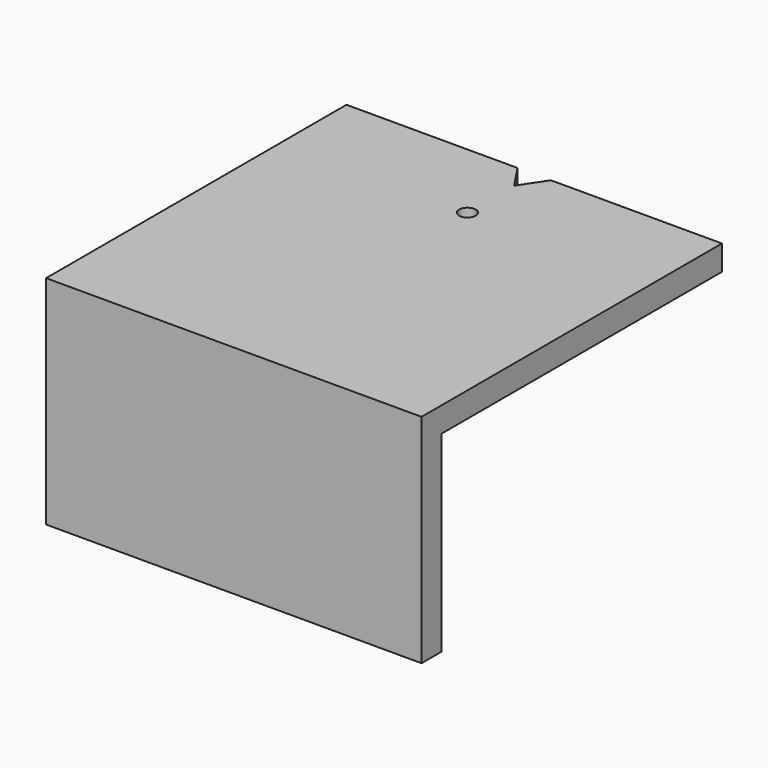
from build123d import *

# Parameters (mm, degrees)
SKETCH001_W     = 45
SKETCH001_H     = 42
PAD001_DEPTH    = 26
SKETCH_W        = 45
SKETCH_H        = 45
PAD_DEPTH       = 26
SKETCH002_R     = 1
POCKET_DEPTH    = 26.001
POCKET001_DEPTH = 5


with BuildPart() as obj1:
    # Sketch001 → Pad001 (new body)
    with BuildSketch(Plane.XY):
        with Locations((22.5, 21)):
            Rectangle(SKETCH001_W, SKETCH001_H)
    extrude(amount=PAD001_DEPTH)


with BuildPart() as obj1_1:
    # Body001 placement: moved
    add(obj1.part.moved(Location((0, 3, -3))))


with BuildPart() as obj2:
    # Sketch → Pad (new body)
    with BuildSketch(Plane.XY):
        with Locations((22.5, 22.5)):
            Rectangle(SKETCH_W, SKETCH_H)
    extrude(amount=PAD_DEPTH)

    # Sketch002 → Pocket (cut, through all)
    with BuildSketch(Plane.XY.offset(26)):
        with Locations((22.5, 35)):
            Circle(SKETCH002_R)
    extrude(amount=-POCKET_DEPTH, mode=Mode.SUBTRACT)

    # Boolean: cut obj1
    add(obj1_1.part, mode=Mode.SUBTRACT)

    # Sketch003 (on Face4 of Boolean) → Pocket001 (cut)
    with BuildSketch(Plane.XY.offset(26)):
        Polygon((20.5, 45), (22.5, 42), (24.5, 45), align=None)
    extrude(amount=-POCKET001_DEPTH, mode=Mode.SUBTRACT)


solid = obj2.part
